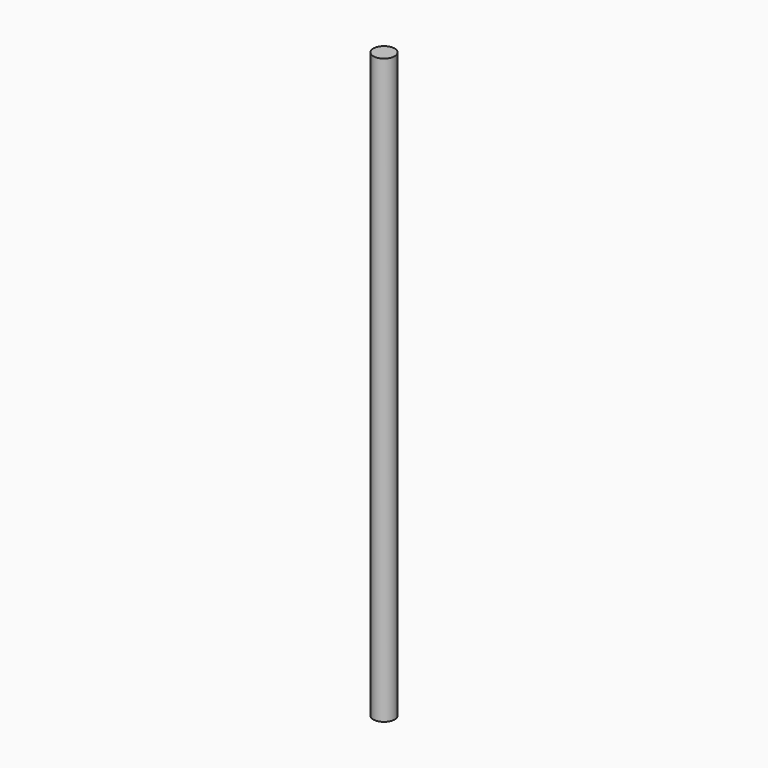
from build123d import *

# Parameters (mm, degrees)
F0_R     = 5
F1_DEPTH = 275
F2_R     = 1.5
F3_DEPTH = 89


with BuildPart() as f1:
    # F0 (on Top) → F1 (new body)
    with BuildSketch(Plane.XY):
        Circle(F0_R)
    extrude(amount=F1_DEPTH)


with BuildPart() as f3:
    # F2 (on Top) → F3 (new body)
    with BuildSketch(Plane.XY):
        Circle(F2_R)
    extrude(amount=F3_DEPTH)


solid = Compound([f1.part, f3.part])
